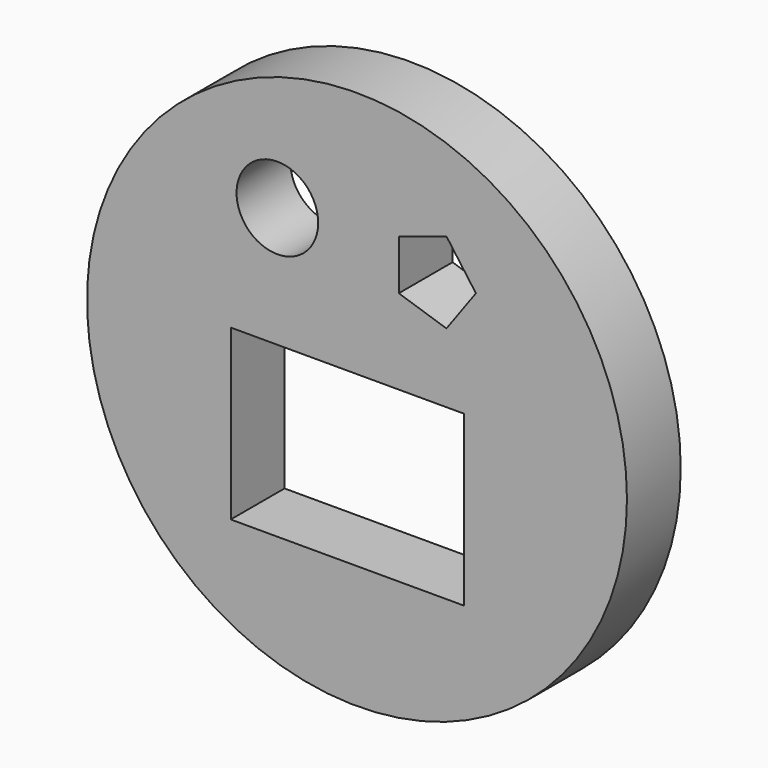
from build123d import *

# Parameters (mm, degrees)
F0_R     = 51.018803
F1_DEPTH = 12.7
F2_W     = 44.067815
F2_H     = 31.929322
F3_DEPTH = 25.4
F5_DEPTH = 25.4
F6_R     = 7.711808
F7_DEPTH = 25.4


with BuildPart() as f1:
    # F0 (on Front) → F1 (new body)
    with BuildSketch(Plane.XZ):
        with Locations((-179.4101, 27.719645)):
            Circle(F0_R)
    extrude(amount=F1_DEPTH)

    # F2 (on face) → F3 (cut)
    with BuildSketch(Plane.XZ.offset(12.7)):
        with Locations((-181.2303, 15.964661)):
            Rectangle(F2_W, F2_H)
    extrude(amount=-F3_DEPTH, mode=Mode.SUBTRACT)

    # F4 (on face) → F5 (cut)
    with BuildSketch(Plane.XZ.offset(12.7)):
        Polygon((-171.511427, 57.43108), (-171.511427, 47.959364), (-162.50329, 45.032443), (-156.935955, 52.695222), (-162.50329, 60.358001), align=None)
    extrude(amount=-F5_DEPTH, mode=Mode.SUBTRACT)

    # F6 (on face) → F7 (cut)
    with BuildSketch(Plane.XZ.offset(12.7)):
        with Locations((-194.455087, 54.694314)):
            Circle(F6_R)
    extrude(amount=-F7_DEPTH, mode=Mode.SUBTRACT)


solid = f1.part
